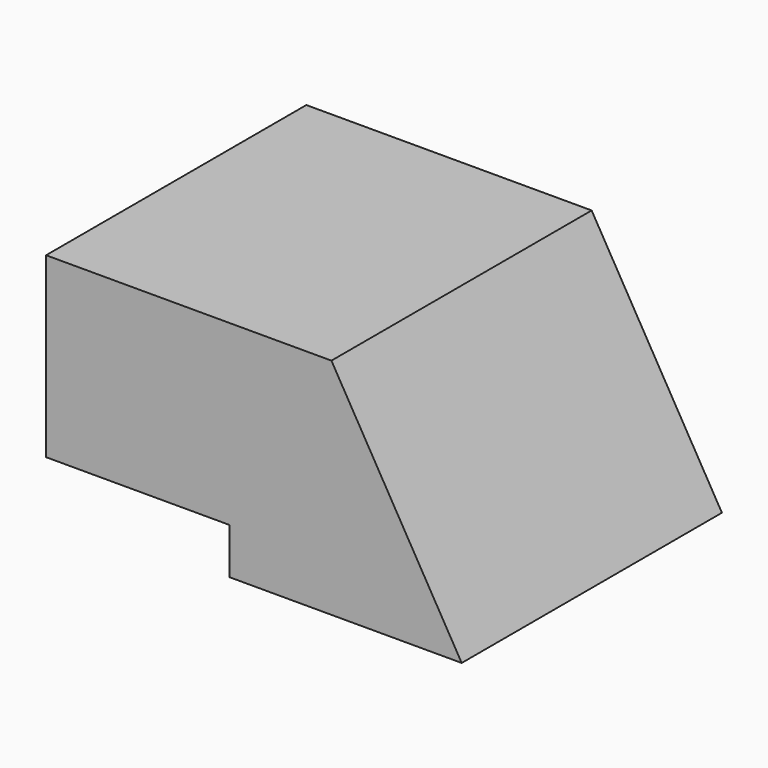
from build123d import *

# Parameters (mm, degrees)
F0_W     = 82.8963629901
F0_H     = 57.0345446467
F1_DEPTH = 105.918
F3_DEPTH = 82.8973629901
F4_W     = 46.730304616
F4_H     = 11.7213707417
F5_DEPTH = 82.8973629901


with BuildPart() as f1:
    # F0 (on Right) → F1 (new body)
    with BuildSketch(Plane.YZ):
        with Locations((3.1172726303, -0.9236373007)):
            Rectangle(F0_W, F0_H)
    extrude(amount=-F1_DEPTH)

    # F2 (on face) → F3 (cut, through all)
    with BuildSketch(Plane.XZ.offset(38.3309088647)):
        Polygon((0, 27.5936350226), (-33.2005023956, 27.5936350226), (0, -29.4409096241), align=None)
    extrude(amount=-F3_DEPTH, mode=Mode.SUBTRACT)

    # F4 (on face) → F5 (cut, through all)
    with BuildSketch(Plane.XZ.offset(38.3309088647)):
        with Locations((-82.552847692, -23.5802242532)):
            Rectangle(F4_W, F4_H)
    extrude(amount=-F5_DEPTH, mode=Mode.SUBTRACT)


solid = f1.part
